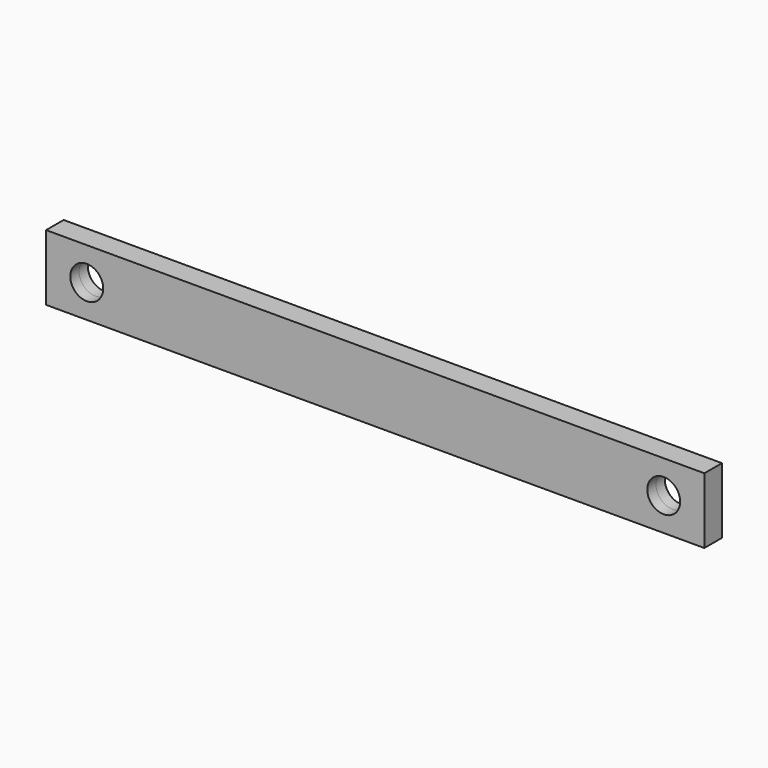
from build123d import *

# Parameters (mm, degrees)
F0_W          = 60
F0_H          = 6
F0_R          = 1.5
F1_DEPTH      = 1
F1_DEPTH_BACK = 1


with BuildPart() as f1:
    # F0 (on Front) → F1 (new body, two sides)
    with BuildSketch(Plane.XZ) as f1_sk:
        Rectangle(F0_W, F0_H)
        with Locations((-26.292, 0)):
            Circle(F0_R, mode=Mode.SUBTRACT)
        with Locations((26.293, 0)):
            Circle(F0_R, mode=Mode.SUBTRACT)
    extrude(amount=F1_DEPTH)
    extrude(f1_sk.sketch, amount=-F1_DEPTH_BACK)


solid = f1.part
